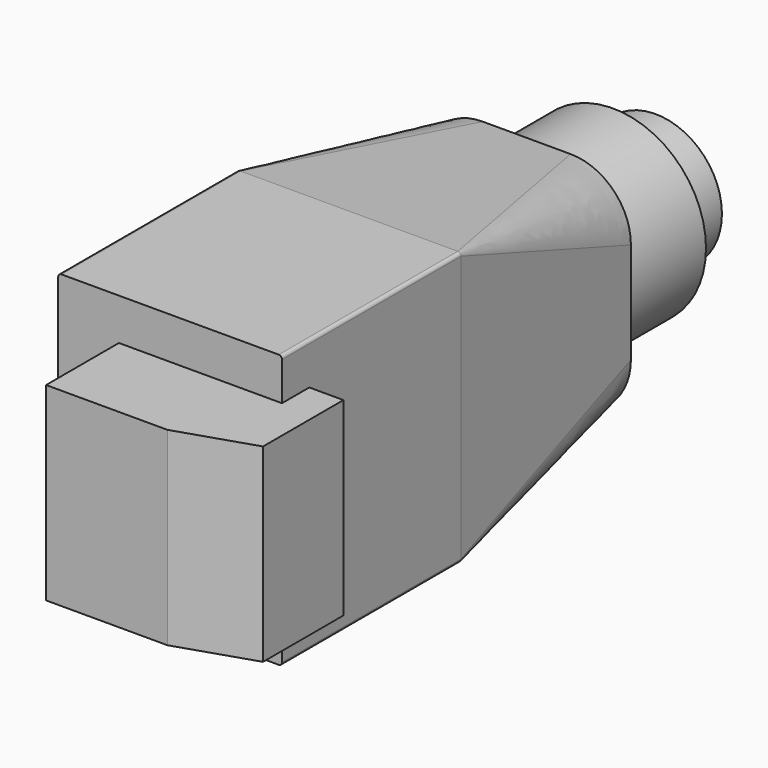
from build123d import *

# Parameters (mm, degrees)
SKETCH_R     = 3.5
SKETCH_R_2   = 3.25
PAD_DEPTH    = 2.8
SKETCH001_R  = 4.9
PAD001_DEPTH = 5.7
PAD002_DEPTH = 11.8
SKETCH004_W  = 6.6
SKETCH004_H  = 10
PAD003_DEPTH = 6.4
SKETCH005_W  = 10
SKETCH005_H  = 6.6
SKETCH006_W  = 10
SKETCH006_H  = 5.3


with BuildPart() as part:
    # Sketch → Pad (new body)
    with BuildSketch(Plane.XZ):
        Circle(SKETCH_R)
        Circle(SKETCH_R_2, mode=Mode.SUBTRACT)
    extrude(amount=PAD_DEPTH)

    # Sketch001 (on Face4 of Pad) → Pad001 (join)
    with BuildSketch(Plane.XZ.offset(2.8)):
        Circle(SKETCH001_R)
    extrude(amount=PAD001_DEPTH)

    # Sketch002 → AdditiveLoft section 0
    with BuildSketch(Plane.XZ.offset(8.5)):
        with BuildLine():
            Line((-5.5, 2.668195), (-5.5, -2.668195))
            ThreePointArc((-5.5, -2.668195), (-4.568071, -4.918071), (-2.318195, -5.85))
            Line((-2.318195, -5.85), (2.318195, -5.85))
            ThreePointArc((2.318195, -5.85), (4.568071, -4.918071), (5.5, -2.668195))
            Line((5.5, -2.668195), (5.5, 2.668195))
            ThreePointArc((5.5, 2.668195), (4.568071, 4.918071), (2.318195, 5.85))
            Line((2.318195, 5.85), (-2.318195, 5.85))
            ThreePointArc((-2.318195, 5.85), (-4.568071, 4.918071), (-5.5, 2.668195))
        make_face()
    # Sketch003 → AdditiveLoft section 1
    with BuildSketch(Plane.XZ.offset(20.2)):
        with BuildLine():
            Line((-5.9, 7.028436), (-5.9, -7.028436))
            ThreePointArc((-5.9, -7.028436), (-5.84975, -7.14975), (-5.728436, -7.2))
            Line((-5.728436, -7.2), (5.728436, -7.2))
            ThreePointArc((5.728436, -7.2), (5.84975, -7.14975), (5.9, -7.028436))
            Line((5.9, -7.028436), (5.9, 7.028436))
            ThreePointArc((5.9, 7.028436), (5.84975, 7.14975), (5.728436, 7.2))
            Line((5.728436, 7.2), (-5.728436, 7.2))
            ThreePointArc((-5.728436, 7.2), (-5.84975, 7.14975), (-5.9, 7.028436))
        make_face()
    loft()

    # AdditiveLoft Face11 → Pad002 (add)
    with BuildSketch(Plane(origin=(0, -20.2, 0), x_dir=(-1, 0, 0), z_dir=(0, -1, 0))):
        with BuildLine():
            Line((5.9, -7.028436), (5.9, 7.028436))
            ThreePointArc((5.9, 7.028436), (5.84975, 7.14975), (5.728436, 7.2))
            Line((5.728436, 7.2), (-5.728436, 7.2))
            ThreePointArc((-5.728436, 7.2), (-5.84975, 7.14975), (-5.9, 7.028436))
            Line((-5.9, 7.028436), (-5.9, -7.028436))
            ThreePointArc((-5.9, -7.028436), (-5.84975, -7.14975), (-5.728436, -7.2))
            Line((-5.728436, -7.2), (5.728436, -7.2))
            ThreePointArc((5.728436, -7.2), (5.84975, -7.14975), (5.9, -7.028436))
        make_face()
    extrude(amount=PAD002_DEPTH)

    # Sketch004 → Pad003 (join)
    with BuildSketch(Plane.YZ.offset(-2.7)):
        with Locations((-33.5, 0)):
            Rectangle(SKETCH004_W, SKETCH004_H)
    extrude(amount=PAD003_DEPTH)

    # Sketch005 (on Face22 of Pad003) → AdditiveLoft001 section 0
    with BuildSketch(Plane(origin=(3.7, 0, 0), x_dir=(0, 0, 1), z_dir=(1, 0, 0))):
        with Locations((0, 33.5)):
            Rectangle(SKETCH005_W, SKETCH005_H)
    # Sketch006 (on Face22 of Pad003) → AdditiveLoft001 section 1
    with BuildSketch(Plane(origin=(7.7, 0, 0), x_dir=(0, 0, 1), z_dir=(1, 0, 0))):
        with Locations((0, 32.85)):
            Rectangle(SKETCH006_W, SKETCH006_H)
    loft()


solid = part.part
